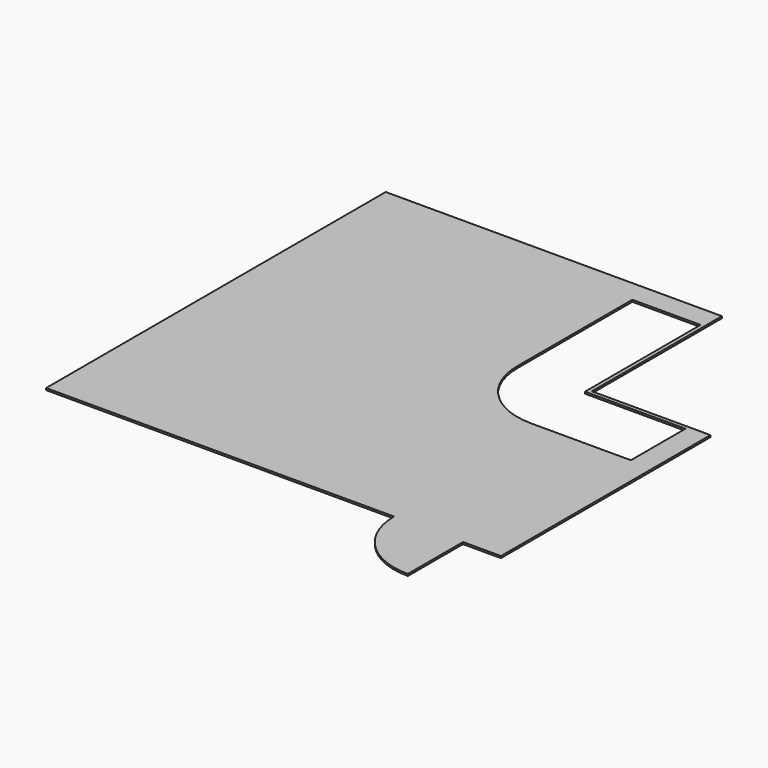
from build123d import *

# Parameters (mm, degrees)
F0_W     = 450
F0_H     = 290
F0_W_2   = 290
F0_H_2   = 400
F1_DEPTH = 25


with BuildPart() as f1:
    # F0 (on Top) → F1 (new body)
    with BuildSketch(Plane.XY):
        with BuildLine():
            Line((497.109995, 1858.067849), (-2987.890005, 1858.067849))
            Line((-2987.890005, 1858.067849), (-2987.890005, -3741.932151))
            Line((-2987.890005, -3741.932151), (1602.109995, -3741.932151))
            ThreePointArc((1602.109995, -3741.932151), (1868.642824, -4385.399322), (2512.109995, -4651.932151))
            Line((2512.109995, -4651.932151), (2512.109995, -3741.932151))
            Line((2512.109995, -3741.932151), (3012.109995, -3741.932151))
            Line((3012.109995, -3741.932151), (3012.109995, -1236.932151))
            Line((3012.109995, -1236.932151), (2722.109995, -1236.932151))
            Line((2722.109995, -1236.932151), (2432.109995, -1236.932151))
            Line((2432.109995, -1236.932151), (2142.109995, -1236.932151))
            Line((2142.109995, -1236.932151), (1852.109995, -1236.932151))
            Line((1852.109995, -1236.932151), (1407.109995, -1236.932151))
            ThreePointArc((1407.109995, -1236.932151), (763.642824, -970.399322), (497.109995, -326.932151))
            Line((497.109995, -326.932151), (497.109995, 118.067849))
            Line((497.109995, 118.067849), (497.109995, 408.067849))
            Line((497.109995, 408.067849), (497.109995, 698.067849))
            Line((497.109995, 698.067849), (497.109995, 988.067849))
            Line((497.109995, 988.067849), (497.109995, 1278.067849))
            Line((497.109995, 1278.067849), (497.109995, 1568.067849))
            Line((497.109995, 1568.067849), (497.109995, 1858.067849))
        make_face()
        with Locations((722.109995, 1713.067849)):
            Rectangle(F0_W, F0_H)
        with Locations((1172.109995, 1713.067849)):
            Rectangle(F0_W, F0_H)
        Polygon((1447.109995, 1858.067849), (1397.109995, 1858.067849), (1397.109995, 1568.067849), (1397.109995, 1278.067849), (1397.109995, 988.067849), (1397.109995, 698.067849), (1397.109995, 408.067849), (1397.109995, 118.067849), (1397.109995, -336.932151), (1852.109995, -336.932151), (2142.109995, -336.932151), (2432.109995, -336.932151), (2722.109995, -336.932151), (3012.109995, -336.932151), (3012.109995, -286.932151), (1447.109995, -286.932151), align=None)
        Polygon((2722.109995, -1236.932151), (3012.109995, -1236.932151), (3012.109995, -786.932151), (3012.109995, -736.932151), (2722.109995, -736.932151), align=None)
        with Locations((2867.109995, -536.932151)):
            Rectangle(F0_W_2, F0_H_2)
    extrude(amount=F1_DEPTH)


solid = f1.part
